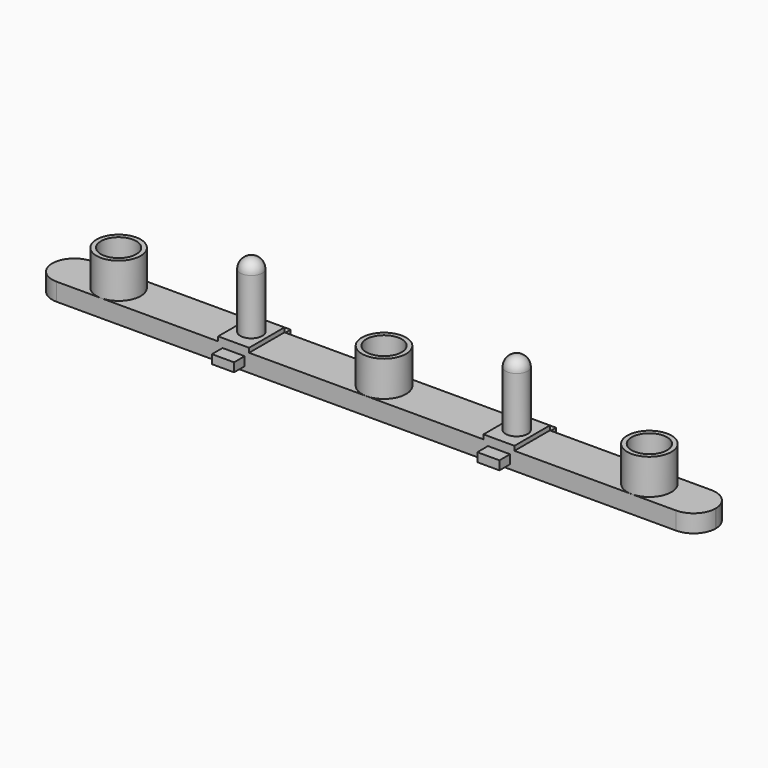
from build123d import *

# Parameters (mm, degrees)
SKETCH_W      = 150
SKETCH_H      = 10
PAD_DEPTH     = 4
SKETCH001_R   = 5
SKETCH001_R_2 = 4
PAD001_DEPTH  = 8
FILLET_R      = 4.99
SKETCH002_W   = 5.5
SKETCH002_H   = 2.5
POCKET_DEPTH  = 3.5
SKETCH004_W   = 5
SKETCH004_H   = 2
PAD002_DEPTH  = 3
SKETCH005_W   = 5
SKETCH005_H   = 2
PAD003_DEPTH  = 3
SKETCH006_W   = 7
SKETCH006_H   = 10
PAD004_DEPTH  = 1
SKETCH008_R   = 2.5
PAD005_DEPTH  = 15
FILLET001_R   = 2.49


with BuildPart() as part:
    # Sketch → Pad (new body)
    with BuildSketch(Plane.XY):
        Rectangle(SKETCH_W, SKETCH_H)
    extrude(amount=PAD_DEPTH)

    # Sketch001 (on Face6 of Pad) → Pad001 (join)
    with BuildSketch(Plane.XY.offset(4)):
        Circle(SKETCH001_R)
        Circle(SKETCH001_R_2, mode=Mode.SUBTRACT)
        with Locations((60, 0)):
            Circle(SKETCH001_R)
        with Locations((60, 0)):
            Circle(SKETCH001_R_2, mode=Mode.SUBTRACT)
        with Locations((-60, 0)):
            Circle(SKETCH001_R)
        with Locations((-60, 0)):
            Circle(SKETCH001_R_2, mode=Mode.SUBTRACT)
    extrude(amount=PAD001_DEPTH)

    # Fillet
    fillet_edges = [part.edges().sort_by_distance(p)[0] for p in [
        (-75, 5, 2),
        (-75, -5, 2),
        (75, 5, 2),
        (75, -5, 2),
    ]]
    fillet(fillet_edges, radius=FILLET_R)

    # Sketch002 (on Face2 of Fillet) → Pocket (cut)
    with BuildSketch(Plane(origin=(0, 0, 0), x_dir=(1, 0, 0), z_dir=(0, 0, -1))):
        with Locations((-68, 0)):
            Rectangle(SKETCH002_W, SKETCH002_H)
        with Locations((68, 0)):
            Rectangle(SKETCH002_W, SKETCH002_H)
    extrude(amount=-POCKET_DEPTH, mode=Mode.SUBTRACT)

    # Sketch004 (on Face6 of Pocket) → Pad002 (join)
    with BuildSketch(Plane(origin=(0, 5, 0), x_dir=(-1, 0, 0), z_dir=(0, 1, 0))):
        with Locations((-30, 2)):
            Rectangle(SKETCH004_W, SKETCH004_H)
        with Locations((30, 2)):
            Rectangle(SKETCH004_W, SKETCH004_H)
    extrude(amount=PAD002_DEPTH)

    # Sketch005 (on Face7 of Pocket) → Pad003 (join)
    with BuildSketch(Plane.XZ.offset(5)):
        with Locations((-30, 2)):
            Rectangle(SKETCH005_W, SKETCH005_H)
        with Locations((30, 2)):
            Rectangle(SKETCH005_W, SKETCH005_H)
    extrude(amount=PAD003_DEPTH)

    # Sketch006 (on Face22 of Pad003) → Pad004 (join)
    with BuildSketch(Plane.XY.offset(4)):
        with Locations((-30, 0)):
            Rectangle(SKETCH006_W, SKETCH006_H)
        with Locations((30, 0)):
            Rectangle(SKETCH006_W, SKETCH006_H)
    extrude(amount=PAD004_DEPTH)

    # Sketch008 (on Face55 of Pad004) → Pad005 (join)
    with BuildSketch(Plane.XY.offset(5)):
        with Locations((-30, 0)):
            Circle(SKETCH008_R)
        with Locations((30, 0)):
            Circle(SKETCH008_R)
    extrude(amount=PAD005_DEPTH)

    # Fillet001
    fillet001_edges = [part.edges().sort_by_distance(p)[0] for p in [
        (27.5, 0, 20),
        (-32.5, 0, 20),
    ]]
    fillet(fillet001_edges, radius=FILLET001_R)


solid = part.part
